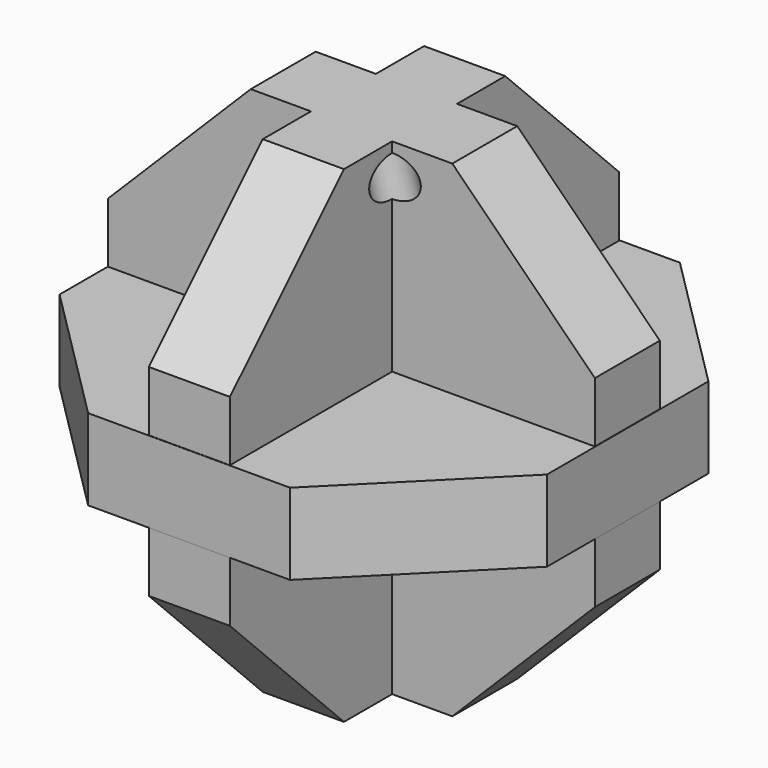
from build123d import *

# Parameters (mm, degrees)
F1_DEPTH = 12.7
F3_DEPTH = 12.7
F5_DEPTH = 12.7
F7_R     = 6.35
F8_DEPTH = 63.5


with BuildPart() as f1:
    # F0 (on Front) → F1 (new body, symmetric)
    with BuildSketch(Plane.XZ):
        Polygon((31.5395204871, 76.1431381106), (-31.5395204871, 76.1431381106), (-76.1431381106, 31.5395204871), (-76.1431381106, -31.5395204871), (-31.5395204871, -76.1431381106), (31.5395204871, -76.1431381106), (76.1431381106, -31.5395204871), (76.1431381106, 31.5395204871), align=None)
    extrude(amount=F1_DEPTH, both=True)

    # F2 (on Top) → F3 (join, symmetric)
    with BuildSketch(Plane.XY):
        Polygon((-31.5866271988, -76.2568637729), (31.5866271988, -76.2568637729), (76.2568637729, -31.5866271988), (76.2568637729, 31.5866271988), (31.5866271988, 76.2568637729), (-31.5866271988, 76.2568637729), (-76.2568637729, 31.5866271988), (-76.2568637729, -31.5866271988), align=None)
    extrude(amount=F3_DEPTH, both=True)

    # F4 (on Right) → F5 (join, symmetric)
    with BuildSketch(Plane.YZ):
        Polygon((31.5395204871, 76.1431381106), (-31.5395204871, 76.1431381106), (-76.1431381106, 31.5395204871), (-76.1431381106, -31.5395204871), (-31.5395204871, -76.1431381106), (31.5395204871, -76.1431381106), (76.1431381106, -31.5395204871), (76.1431381106, 31.5395204871), align=None)
    extrude(amount=F5_DEPTH, both=True)

    # F7 (on 3pt) → F8 (cut, symmetric)
    with BuildSketch(Plane(origin=(0, 0, 0), x_dir=(0.7071067812, 0.7071067812, 0), z_dir=(0.7071067812, -0.7071067812, 0))):
        with Locations((0, 66.614896059)):
            Circle(F7_R)
    extrude(amount=F8_DEPTH, both=True, mode=Mode.SUBTRACT)


solid = f1.part
